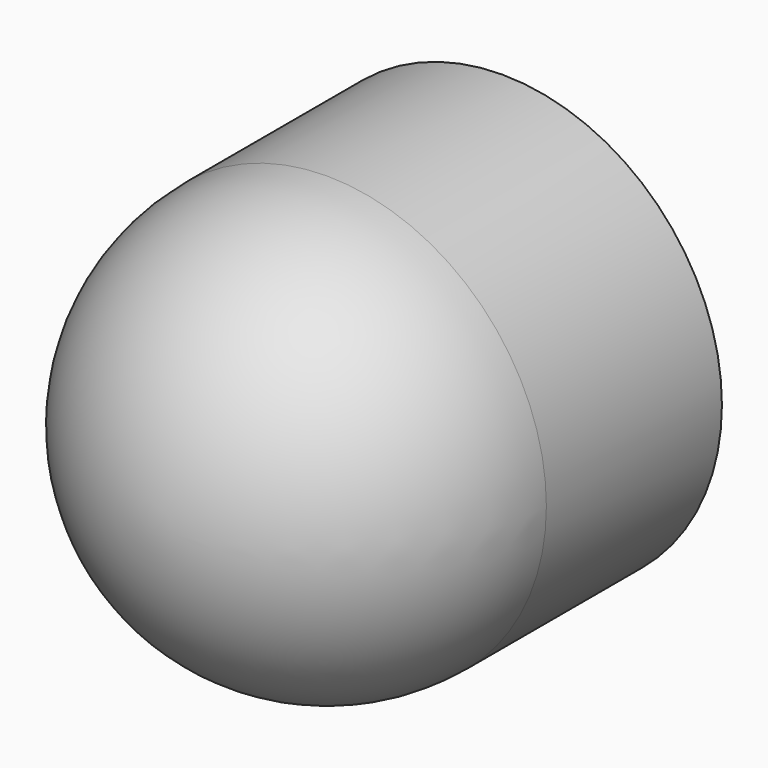
from build123d import *

# Parameters (mm, degrees)
F0_R     = 4.75
F1_DEPTH = 4.75
F2_R     = 4.75


with BuildPart() as f1:
    # F0 (on Front) → F1 (new body, symmetric)
    with BuildSketch(Plane.XZ):
        Circle(F0_R)
    extrude(amount=F1_DEPTH, both=True)

    # F2
    f2_edges = [f1.edges().sort_by_distance(p)[0] for p in [
        (-4.75, -4.75, 0),
    ]]
    fillet(f2_edges, radius=F2_R)


solid = f1.part
